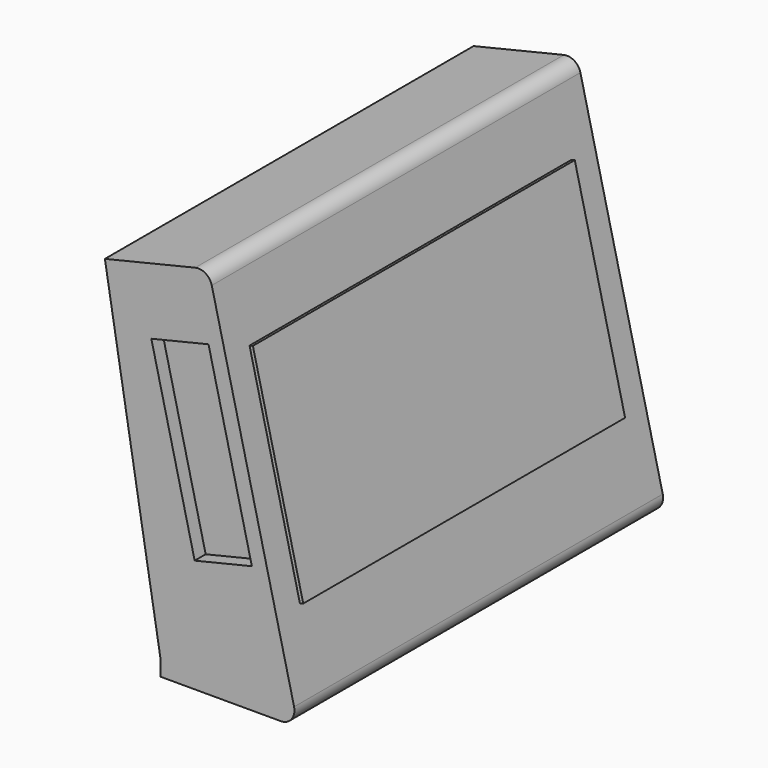
from build123d import *

# Parameters (mm, degrees)
F1_DEPTH = 134
F2_DEPTH = 4
F3_W     = 117
F3_H     = 62.9306063323
F4_DEPTH = 1


with BuildPart() as f1:
    # F0 (on Front) → F1 (new body)
    with BuildSketch(Plane.XZ):
        with BuildLine():
            Line((0, 4.45), (0, 0))
            Line((0, 0), (34.9306063323, 0))
            ThreePointArc((34.9306063323, 0), (38.0707858746, 1.5222444749), (38.8209049377, 4.9303637789))
            Line((38.8209049377, 4.9303637789), (14.8801779705, 105.0380623451))
            ThreePointArc((14.8801779705, 105.0380623451), (13.0828693528, 107.5164216279), (10.0595155863, 107.9979971716))
            Line((10.0595155863, 107.9979971716), (-16.2, 101.7180416642))
            Line((-16.2, 101.7180416642), (0, 4.45))
        make_face()
        Polygon((-2.6967180639, 85.6686218319), (13.934308474, 89.6459269865), (26.5407376777, 36.9323808837), (9.9097111398, 32.9550757291), align=None, mode=Mode.SUBTRACT)
        Polygon((26.5407376777, 36.9323808837), (13.934308474, 89.6459269865), (-2.6967180639, 85.6686218319), (9.9097111398, 32.9550757291), align=None)
    extrude(amount=-F1_DEPTH)

    # F0 (on Front) → F2 (cut)
    with BuildSketch(Plane.XZ):
        Polygon((26.5407376777, 36.9323808837), (13.934308474, 89.6459269865), (-2.6967180639, 85.6686218319), (9.9097111398, 32.9550757291), align=None)
    extrude(amount=-F2_DEPTH, mode=Mode.SUBTRACT)

    # F3 (on face) → F4 (join)
    with BuildSketch(Plane(origin=(37.8360580974, 0, 9.0484822786), x_dir=(0, 1, 0), z_dir=(0.9725746513, 0, 0.2325909447))):
        with Locations((67, 49.2310590451)):
            Rectangle(F3_W, F3_H)
    extrude(amount=F4_DEPTH)


solid = f1.part
